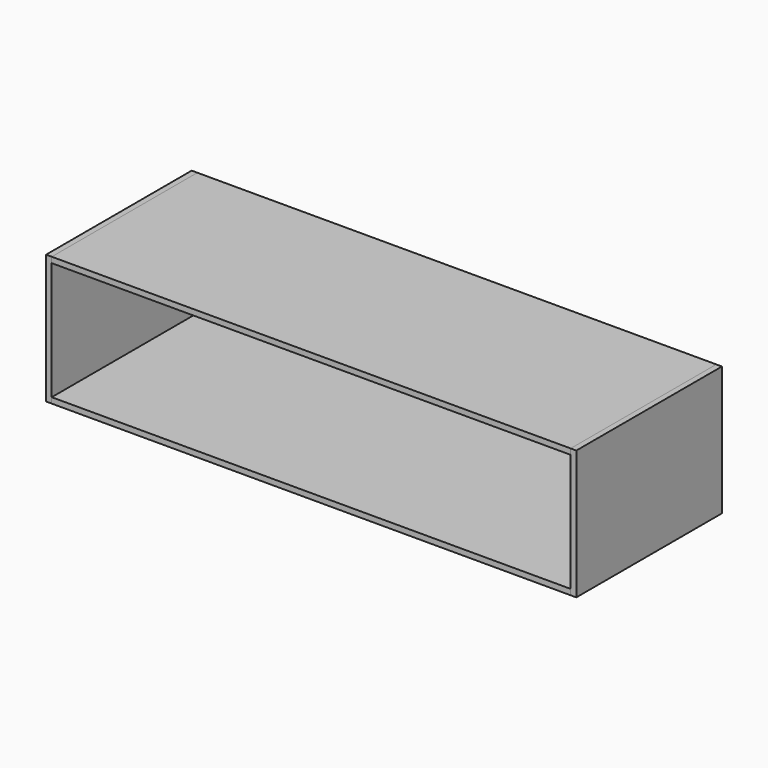
from build123d import *

# Parameters (mm, degrees)
F0_W     = 955.2
F0_H     = 10.4
F1_DEPTH = 335
F2_DEPTH = 335


with BuildPart() as f1:
    # F0 (on Front) → F1 (new body)
    with BuildSketch(Plane.XZ):
        with Locations((0, -113.8)):
            Rectangle(F0_W, F0_H)
    extrude(amount=F1_DEPTH)


with BuildPart() as f1b:
    # F0 (on Front) → F1, piece 2 (new body)
    with BuildSketch(Plane.XZ):
        with Locations((0, 113.8)):
            Rectangle(F0_W, F0_H)
    extrude(amount=F1_DEPTH)


with BuildPart() as f2:
    # F0 (on Front) → F2 (new body, through all)
    with BuildSketch(Plane.XZ):
        Polygon((-488, -119), (-477.6, -119), (-477.6, -108.6), (-477.6, 108.6), (-477.6, 119), (-488, 119), align=None)
    extrude(amount=F2_DEPTH)


with BuildPart() as f2b:
    # F0 (on Front) → F2, piece 2 (new body, through all)
    with BuildSketch(Plane.XZ):
        Polygon((477.6, -119), (488, -119), (488, 119), (477.6, 119), (477.6, 108.6), (477.6, -108.6), align=None)
    extrude(amount=F2_DEPTH)


solid = Compound([f1.part, f1b.part, f2.part, f2b.part])
